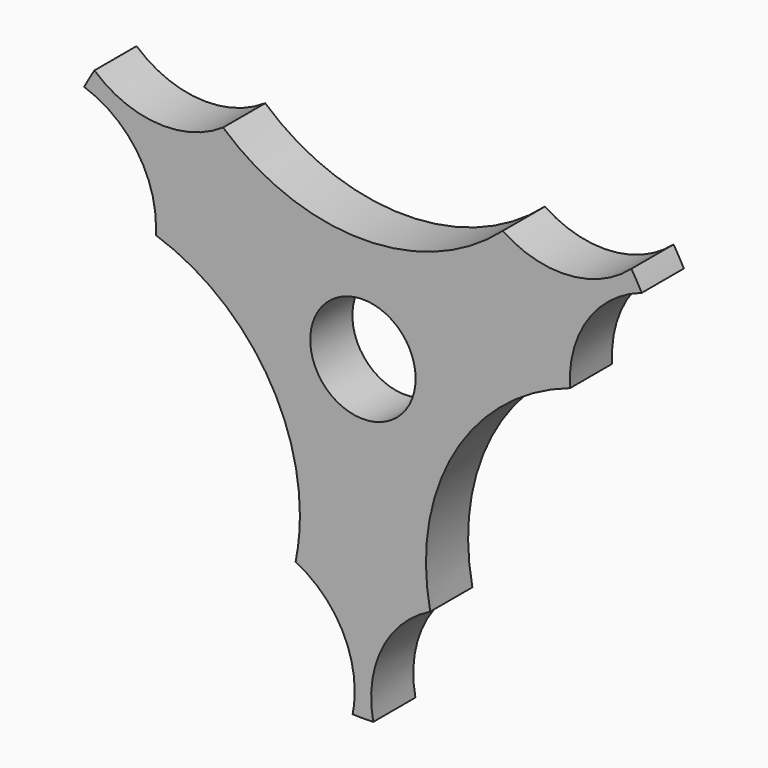
from build123d import *

# Parameters (mm, degrees)
F0_R     = 6.35
F1_DEPTH = 6.35


with BuildPart() as f1:
    # F0 (on Front) → F1 (new body)
    with BuildSketch(Plane.XZ):
        with BuildLine():
            ThreePointArc((24.967043, 5.047776), (27.078139, 12.979448), (33.599452, 17.963487))
            ThreePointArc((33.599452, 17.963487), (32.995568, 19.05), (32.356562, 20.116235))
            ThreePointArc((32.356562, 20.116235), (24.779601, 16.960632), (16.855024, 19.098206))
            ThreePointArc((16.855024, 19.098206), (0, 12.7), (-16.855024, 19.098206))
            ThreePointArc((-16.855024, 19.098206), (-24.779601, 16.960632), (-32.356562, 20.116235))
            ThreePointArc((-32.356562, 20.116235), (-32.995568, 19.05), (-33.599452, 17.963487))
            ThreePointArc((-33.599452, 17.963487), (-27.327541, 13.339033), (-24.936894, 5.922346))
            ThreePointArc((-24.936894, 5.922346), (-24.944434, 5.484801), (-24.967043, 5.047776))
            ThreePointArc((-24.967043, 5.047776), (-12.391144, -4.196794), (-7.595568, -19.05))
            ThreePointArc((-7.595568, -19.05), (-7.725011, -21.611042), (-8.11202, -24.145982))
            ThreePointArc((-8.11202, -24.145982), (-2.916324, -28.830524), (-0.989545, -35.55568))
            ThreePointArc((-0.989545, -35.55568), (-1.05304, -36.824042), (-1.24289, -38.079722))
            ThreePointArc((-1.24289, -38.079722), (0, -38.1), (1.24289, -38.079722))
            ThreePointArc((1.24289, -38.079722), (2.298538, -29.94008), (8.11202, -24.145982))
            ThreePointArc((8.11202, -24.145982), (10.998523, -6.35), (24.967043, 5.047776))
        make_face()
        Circle(F0_R, mode=Mode.SUBTRACT)
    extrude(amount=F1_DEPTH)


solid = f1.part
